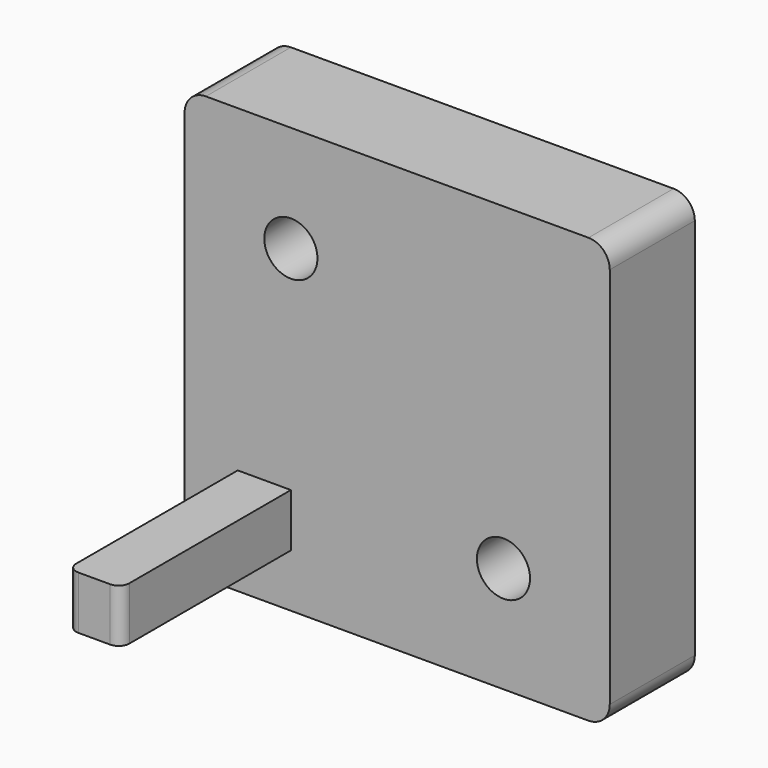
from build123d import *

# Parameters (mm, degrees)
F0_W      = 101.6
F0_H      = 101.6
F1_DEPTH  = 25.4
F2_R      = 5.08
F3_R      = 5.08
F4_R      = 5.08
F5_R      = 5.08
F8_D      = 12.7
F10_W     = 12.7
F10_H     = 12.7
F11_DEPTH = 50.8
F12_R     = 2.54
F13_R     = 2.54


with BuildPart() as f1:
    # F0 (on Front) → F1 (new body)
    with BuildSketch(Plane.XZ):
        with Locations((-8.919485, 10.413215)):
            Rectangle(F0_W, F0_H)
    extrude(amount=F1_DEPTH)

    # F2
    f2_edges = [f1.edges().sort_by_distance(p)[0] for p in [
        (-59.719485, -12.7, 61.213215),
    ]]
    fillet(f2_edges, radius=F2_R)

    # F3
    f3_edges = [f1.edges().sort_by_distance(p)[0] for p in [
        (-59.719485, -12.7, -40.386785),
    ]]
    fillet(f3_edges, radius=F3_R)

    # F4
    f4_edges = [f1.edges().sort_by_distance(p)[0] for p in [
        (41.880515, -12.7, -40.386785),
    ]]
    fillet(f4_edges, radius=F4_R)

    # F5
    f5_edges = [f1.edges().sort_by_distance(p)[0] for p in [
        (41.880515, -12.7, 61.213215),
    ]]
    fillet(f5_edges, radius=F5_R)

    # F8 (through all)
    with Locations(Plane.XZ.offset(25.4)):
        with Locations((-34.319485, 35.813215), (16.480515, -14.986785)):
            Hole(F8_D / 2)

    # F10 (on face) → F11 (join)
    with BuildSketch(Plane.XZ.offset(25.4)):
        with Locations((-40.669485, -21.336785)):
            Rectangle(F10_W, F10_H)
    extrude(amount=F11_DEPTH)

    # F12
    f12_edges = [f1.edges().sort_by_distance(p)[0] for p in [
        (-34.319485, -76.2, -21.336785),
    ]]
    fillet(f12_edges, radius=F12_R)

    # F13
    f13_edges = [f1.edges().sort_by_distance(p)[0] for p in [
        (-47.019485, -76.2, -21.336785),
    ]]
    fillet(f13_edges, radius=F13_R)


solid = f1.part
